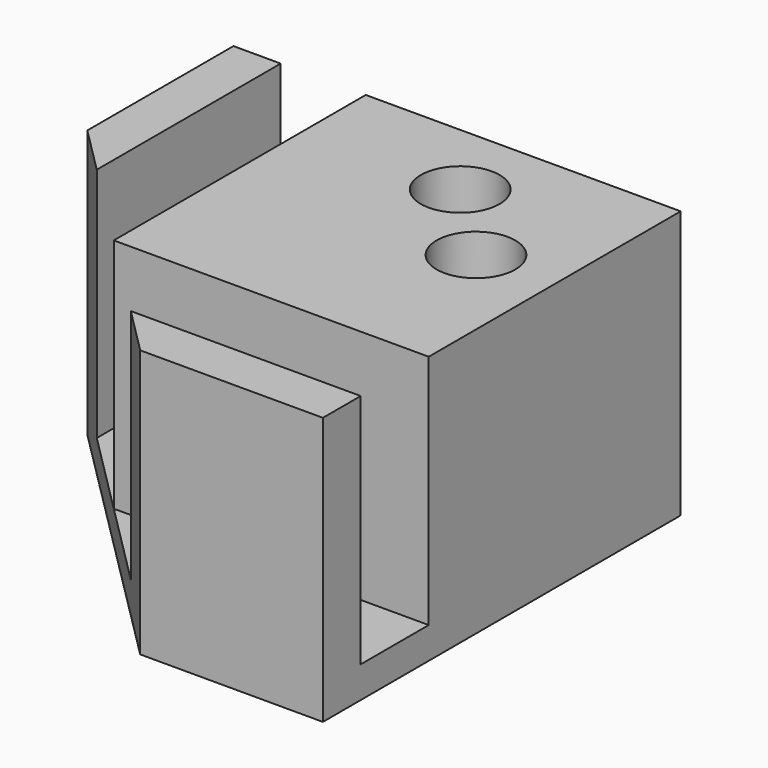
from build123d import *

# Parameters (mm, degrees)
F0_W     = 20
F0_H     = 20
F0_R     = 2.5
F1_DEPTH = 15
F3_DEPTH = 15
F4_R     = 2.5
F5_DEPTH = 2


with BuildPart() as f1:
    # F0 (on Top) → F1 (new body)
    with BuildSketch(Plane.XY):
        with Locations((10, 10)):
            Rectangle(F0_W, F0_H)
        with Locations((15, 10)):
            Circle(F0_R, mode=Mode.SUBTRACT)
        with Locations((10, 15)):
            Circle(F0_R, mode=Mode.SUBTRACT)
    extrude(amount=F1_DEPTH)



with BuildPart() as f3:
    # F2 (on Top) → F3 (new body, through all)
    with BuildSketch(Plane.XY):
        Polygon((-5.4, 8.4), (-5.4, 20), (-8.4, 20), (-8.4, 8.4), (-5.4, 5.4), align=None)
        Polygon((20, -8.4), (20, -5.4), (8.4, -5.4), (5.4, -5.4), (8.4, -8.4), align=None)
    extrude(amount=F3_DEPTH)


with BuildPart() as f1_1:
    add(f1.part)

    add(f3.part)  # F5 merges F3
    # F4 (on face) → F5 (join)
    with BuildSketch(Plane(origin=(0, 0, 0), x_dir=(1, 0, 0), z_dir=(0, 0, -1))):
        Polygon((-8.4, -20), (20, -20), (20, 8.4), (8.4, 8.4), (-8.4, -8.4), align=None)
        with Locations((10, -15)):
            Circle(F4_R, mode=Mode.SUBTRACT)
        with Locations((15, -10)):
            Circle(F4_R, mode=Mode.SUBTRACT)
    extrude(amount=F5_DEPTH)


solid = f1_1.part
